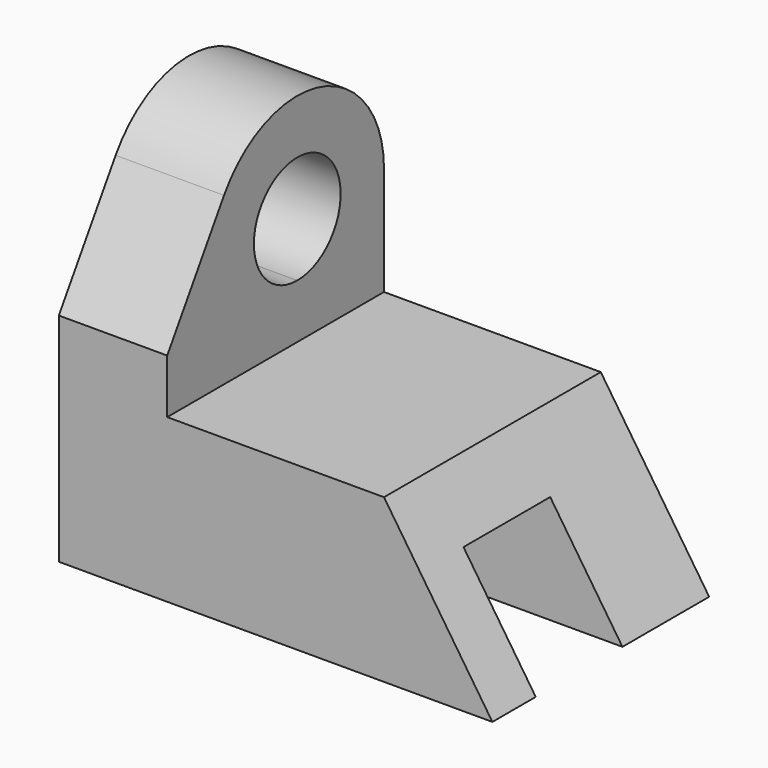
from build123d import *

# Parameters (mm, degrees)
F0_W     = 50.8
F0_H     = 12.7
F0_H_2   = 25.4
F1_DEPTH = 38.1
F0_W_2   = 25.4
F2_DEPTH = 50.8
F5_DEPTH = 63.5
F4_W     = 25.4
F4_H     = 25.4
F6_DEPTH = 88.9
F8_DEPTH = 25.4


with BuildPart() as f1:
    # F0 (on Top) → F1 (new body)
    with BuildSketch(Plane.XY):
        with Locations((0, -25.4)):
            Rectangle(F0_W, F0_H)
        with Locations((0, -6.35)):
            Rectangle(F0_W, F0_H_2)
        with Locations((0, 19.05)):
            Rectangle(F0_W, F0_H_2)
    extrude(amount=F1_DEPTH)

    # F0 (on Top) → F2 (join)
    with BuildSketch(Plane.XY):
        with Locations((-38.1, 19.05)):
            Rectangle(F0_W_2, F0_H_2)
        with Locations((-38.1, -6.35)):
            Rectangle(F0_W_2, F0_H_2)
        with Locations((-38.1, -25.4)):
            Rectangle(F0_W_2, F0_H)
    extrude(amount=F2_DEPTH)

    # F3 (on face) → F5 (join)
    with BuildSketch(Plane.XZ.offset(31.75)):
        Polygon((50.8, 0), (25.4, 38.1), (25.4, 0), align=None)
    extrude(amount=-F5_DEPTH)

    # F4 (on face) → F6 (cut, symmetric)
    with BuildSketch(Plane.YZ.offset(25.4)):
        with Locations((-6.35, 12.7)):
            Rectangle(F4_W, F4_H)
    extrude(amount=F6_DEPTH, both=True, mode=Mode.SUBTRACT)

    # F7 (on face) → F8 (join)
    with BuildSketch(Plane(origin=(-50.8, 0, 0), x_dir=(0, -1, 0), z_dir=(-1, 0, 0))):
        with BuildLine():
            Line((15.6470452561, 50.8), (19.05, 50.8))
            Line((19.05, 50.8), (31.75, 50.8))
            Line((31.75, 50.8), (15.1117039467, 77.08511184))
            ThreePointArc((15.1117039467, 77.08511184), (18.0455659931, 70.5722245353), (19.05, 63.5))
            ThreePointArc((19.05, 63.5), (18.1845159877, 56.9259962544), (15.6470452561, 50.8))
        make_face()
        with BuildLine():
            Line((-6.3500000221, 50.8), (15.6470452561, 50.8))
            ThreePointArc((15.6470452561, 50.8), (18.1845159877, 56.9259962544), (19.05, 63.5))
            ThreePointArc((19.05, 63.5), (18.0455659931, 70.5722245353), (15.1117039467, 77.08511184))
            ThreePointArc((15.1117039467, 77.08511184), (-13.4222245353, 87.8955659931), (-31.75, 63.5))
            ThreePointArc((-31.75, 63.5), (-30.8845159877, 56.9259962544), (-28.3470452561, 50.8))
            Line((-28.3470452561, 50.8), (-6.3500000221, 50.8))
        make_face()
        with BuildLine():
            ThreePointArc((6.35, 63.5), (2.6302561133, 54.5197438711), (-6.3500000221, 50.8))
            ThreePointArc((-6.3500000221, 50.8), (-15.3302561133, 72.4802561289), (6.35, 63.5))
        make_face(mode=Mode.SUBTRACT)
        with BuildLine():
            ThreePointArc((-28.3470452561, 50.8), (-6.35, 38.1), (15.6470452561, 50.8))
            Line((15.6470452561, 50.8), (-6.3500000221, 50.8))
            Line((-6.3500000221, 50.8), (-28.3470452561, 50.8))
        make_face()
        with BuildLine():
            Line((-31.75, 50.8), (-28.3470452561, 50.8))
            ThreePointArc((-28.3470452561, 50.8), (-30.8845159877, 56.9259962544), (-31.75, 63.5))
            Line((-31.75, 63.5), (-31.75, 50.8))
        make_face()
    extrude(amount=-F8_DEPTH)


solid = f1.part
